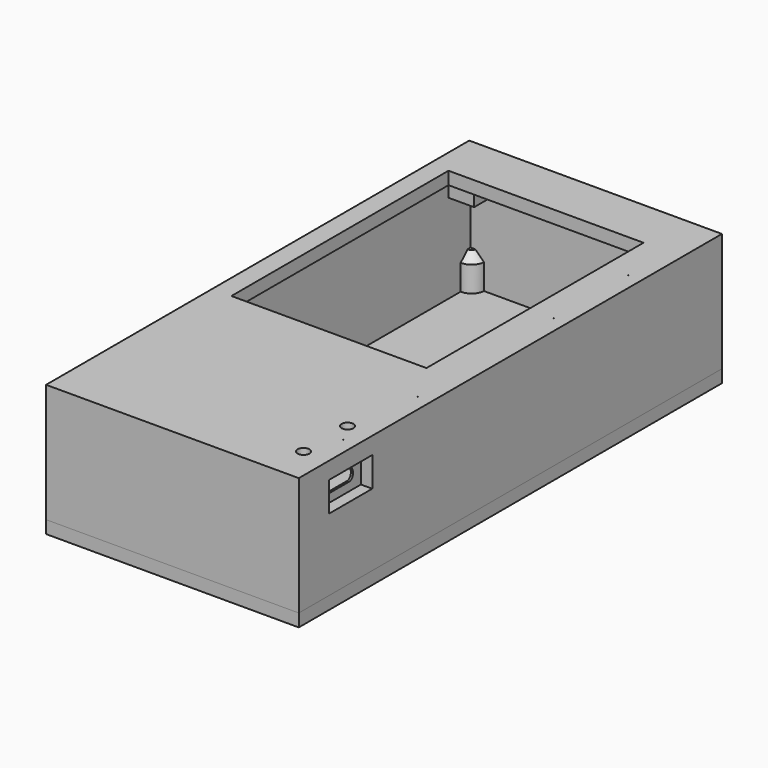
from build123d import *

# Parameters (mm, degrees)
SKETCH032_W      = 6.292553
SKETCH032_H      = 6.324497
SKETCH032_R      = 0.65
SKETCH032_W_2    = 6.132851
SKETCH032_H_2    = 6.452263
SKETCH032_W_3    = 6.466217
SKETCH032_H_3    = 6.40197
SKETCH032_W_4    = 6.080806
SKETCH032_H_4    = 6.514312
EXTRUDE007_DEPTH = 4
SKETCH034_R      = 1.4
EXTRUDE010_DEPTH = 6
SKETCH002_W      = 53.6035
SKETCH002_H      = 118.748
SKETCH002_W_2    = 46
SKETCH002_H_2    = 64
EXTRUDE_DEPTH    = 3
SKETCH038_W      = 4
SKETCH038_H      = 4
SKETCH038_R      = 0.65
EXTRUDE012_DEPTH = 5.62
SKETCH040_R      = 0.65
EXTRUDE015_DEPTH = 5
EXTRUDE006_DEPTH = 10
EXTRUDE003_DEPTH = 7
EXTRUDE001_DEPTH = 28
SKETCH039_R      = 3
EXTRUDE014_DEPTH = 8
CHAMFER_SIZE     = 2
SKETCH043_R      = 1.5
EXTRUDE016_DEPTH = 3


with BuildPart() as obj1:
    # Sketch032 → Extrude007 (new body)
    with BuildSketch(Plane.XY.offset(3)):
        with Locations((13.978955, 46.150678)):
            Rectangle(SKETCH032_W, SKETCH032_H)
        with Locations((13.893746, 46.173811)):
            Circle(SKETCH032_R, mode=Mode.SUBTRACT)
        with Locations((57.819202, 46.118736)):
            Rectangle(SKETCH032_W_2, SKETCH032_H_2)
        with Locations((57.912921, 46.190118)):
            Circle(SKETCH032_R, mode=Mode.SUBTRACT)
        with Locations((57.676891, 121.901234)):
            Rectangle(SKETCH032_W_3, SKETCH032_H_3)
        with Locations((57.935604, 122.196915)):
            Circle(SKETCH032_R, mode=Mode.SUBTRACT)
        with Locations((13.955798, 121.866516)):
            Rectangle(SKETCH032_W_4, SKETCH032_H_4)
        with Locations((13.898375, 122.183232)):
            Circle(SKETCH032_R, mode=Mode.SUBTRACT)
    extrude(amount=EXTRUDE007_DEPTH)


with BuildPart() as extrude010:
    # Sketch034 → Extrude010 (new body)
    with BuildSketch(Plane.XY):
        with Locations((61.719737, 25.394853)):
            Circle(SKETCH034_R)
        with Locations((61.719043, 12.404507)):
            Circle(SKETCH034_R)
    extrude(amount=EXTRUDE010_DEPTH)


with BuildPart() as cut_frontplate:
    # Sketch002 → Extrude (new body)
    with BuildSketch(Plane.XY):
        with Locations((37.714724, 65.755662)):
            Rectangle(SKETCH002_W, SKETCH002_H)
        with Locations((35.616439, 84.529594)):
            Rectangle(SKETCH002_W_2, SKETCH002_H_2, mode=Mode.SUBTRACT)
    extrude(amount=EXTRUDE_DEPTH)

    # Cut002: cut Extrude010
    add(extrude010.part, mode=Mode.SUBTRACT)


with BuildPart() as obj2:
    # Sketch038 → Extrude012 (new body)
    with BuildSketch(Plane.XY):
        with Locations((18.508026, 29.817219)):
            Rectangle(SKETCH038_W, SKETCH038_H)
        with Locations((18.508026, 29.817219)):
            Circle(SKETCH038_R, mode=Mode.SUBTRACT)
        with Locations((18.508026, 8.424557)):
            Rectangle(SKETCH038_W, SKETCH038_H)
        with Locations((18.508026, 8.424557)):
            Circle(SKETCH038_R, mode=Mode.SUBTRACT)
        with Locations((62.506323, 29.75783)):
            Rectangle(SKETCH038_W, SKETCH038_H)
        with Locations((62.486177, 29.774295)):
            Circle(SKETCH038_R, mode=Mode.SUBTRACT)
        with Locations((62.447668, 8.410867)):
            Rectangle(SKETCH038_W, SKETCH038_H)
        with Locations((62.452385, 8.424557)):
            Circle(SKETCH038_R, mode=Mode.SUBTRACT)
    extrude(amount=EXTRUDE012_DEPTH)


with BuildPart() as extrude015:
    # Sketch040 → Extrude015 (new body)
    with BuildSketch(Plane.XY.offset(24)):
        with Locations((11.073146, 6.580188)):
            Circle(SKETCH040_R)
        with Locations((64.661705, 6.544199)):
            Circle(SKETCH040_R)
        with Locations((11.087887, 125.307831)):
            Circle(SKETCH040_R)
        with Locations((64.566948, 125.115219)):
            Circle(SKETCH040_R)
    extrude(amount=EXTRUDE015_DEPTH)


with BuildPart() as extrude006:
    # Sketch031 → Extrude006 (new body)
    with BuildSketch(Plane(origin=(61, 14.84, 6), x_dir=(0, 1, 0), z_dir=(1, 0, 0))):
        with BuildLine():
            Line((6.85371, 3.004473), (1.14803, 3.004473))
            ThreePointArc((1.14803, 3.004473), (0.33433, 2.667428), (-0.002715, 1.853728))
            Line((-0.002715, 1.853728), (-0.002715, 1.400398))
            ThreePointArc((-0.002715, 1.400398), (0.404218, 0.417976), (1.38664, 0.011043))
            Line((1.38664, 0.011043), (6.6151, 0.011043))
            ThreePointArc((6.6151, 0.011043), (7.597522, 0.417976), (8.004455, 1.400398))
            Line((8.004455, 1.400398), (8.004455, 1.853728))
            ThreePointArc((8.004455, 1.853728), (7.667409, 2.667428), (6.85371, 3.004473))
        make_face()
    extrude(amount=EXTRUDE006_DEPTH)


with BuildPart() as extrude003:
    # Sketch004 → Extrude003 (new body)
    with BuildSketch(Plane.XY.offset(4)):
        Polygon((65.016243, 23.212684), (65.016243, 25.212684), (67.688047, 25.212684), (67.688047, 12.501884), (65.016243, 12.501884), (65.016243, 14.501884), align=None)
    extrude(amount=EXTRUDE003_DEPTH)


with BuildPart() as cut001:
    # Sketch003 → Extrude001 (new body)
    with BuildSketch(Plane.XY):
        Polygon((67.688047, 3.553235), (8.084547, 3.553235), (8.084547, 128.301235), (67.688047, 128.301235), (67.688047, 12.504498), align=None)
        Polygon((10.912974, 6.381662), (64.516988, 6.381662), (64.516988, 14.504498), (64.516988, 125.129662), (10.912974, 125.129662), align=None, mode=Mode.SUBTRACT)
    extrude(amount=EXTRUDE001_DEPTH)

    # Cut: cut Extrude003
    add(extrude003.part, mode=Mode.SUBTRACT)

    # Cut001: cut Extrude006
    add(extrude006.part, mode=Mode.SUBTRACT)


with BuildPart() as fusion_box:
    # Sketch039 → Extrude014 (new body)
    with BuildSketch(Plane.XY.offset(20)):
        with Locations((11.112349, 6.564926)):
            Circle(SKETCH039_R)
        with Locations((64.625624, 6.573052)):
            Circle(SKETCH039_R)
        with Locations((11.098167, 125.264125)):
            Circle(SKETCH039_R)
        with Locations((64.591936, 125.261118)):
            Circle(SKETCH039_R)
    extrude(amount=EXTRUDE014_DEPTH)

    # Fusion: union Cut001
    add(cut001.part)

    # Cut003: cut Extrude015
    add(extrude015.part, mode=Mode.SUBTRACT)

    # Chamfer
    chamfer_edges = [fusion_box.edges().sort_by_distance(p)[0] for p in [
        (62.400873, 8.585633, 20),
        (13.161968, 8.755602, 20),
        (62.4907, 123.119901, 20),
        (13.103455, 123.032798, 20),
    ]]
    chamfer(chamfer_edges, length=CHAMFER_SIZE)

    # Fusion001: union obj1, Cut-frontplate, obj2
    add(obj1.part)
    add(cut_frontplate.part)
    add(obj2.part)


with BuildPart() as part_mirroring:
    # Part__Mirroring: instance of Fusion-Box
    add(fusion_box.part.mirror(Plane(origin=(1, 0, 0), x_dir=(0, 1, 0), z_dir=(0, 0, 1))))


with BuildPart() as backplate:
    # Sketch043 → Extrude016 (new body)
    with BuildSketch(Plane.XY):
        Polygon((67.688047, 3.553235), (8.084547, 3.553235), (8.084547, 128.301235), (67.688047, 128.301235), (67.688047, 12.504498), align=None)
        with Locations((11.073146, 6.580188)):
            Circle(SKETCH043_R, mode=Mode.SUBTRACT)
        with Locations((64.661705, 6.544199)):
            Circle(SKETCH043_R, mode=Mode.SUBTRACT)
        with Locations((11.087887, 125.307831)):
            Circle(SKETCH043_R, mode=Mode.SUBTRACT)
        with Locations((64.566948, 125.115219)):
            Circle(SKETCH043_R, mode=Mode.SUBTRACT)
    extrude(amount=EXTRUDE016_DEPTH)


with BuildPart() as backplate_1:
    # Extrude016 placement: moved
    add(backplate.part.moved(Location((0, 0, -31))))


solid = Compound([part_mirroring.part, backplate_1.part])
